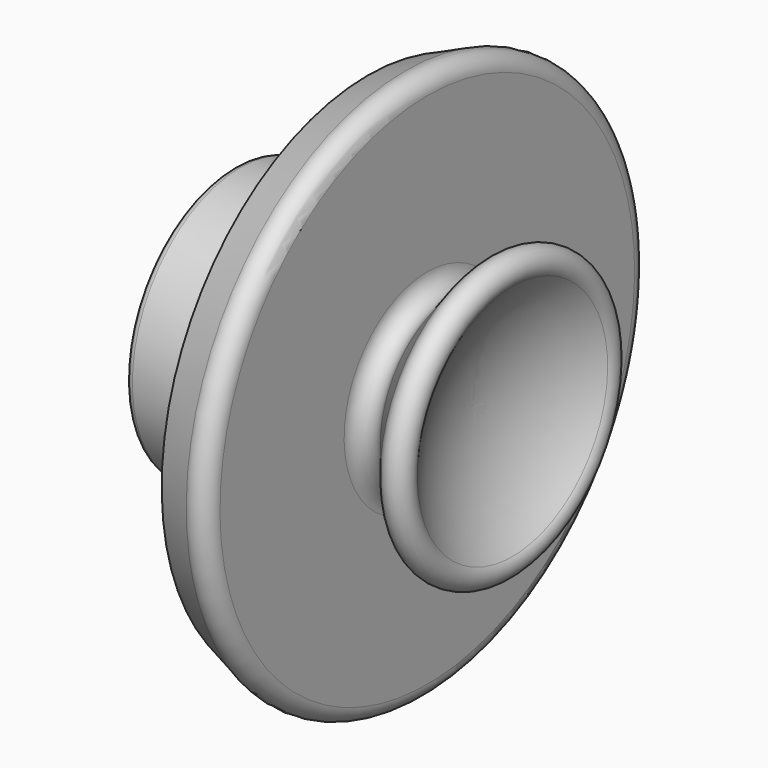
from build123d import *


with BuildPart() as f1:
    # F0 (on Front) → F1 (revolve)
    with BuildSketch(Plane.XZ):
        with BuildLine():
            Line((0, 32.5), (0, 30.692905))
            Line((0, 30.692905), (1, 31.692905))
            Line((1, 31.692905), (2, 30.692905))
            Line((2, 30.692905), (2, 27.692905))
            Line((2, 27.692905), (1, 26.692905))
            Line((1, 26.692905), (0, 27.692905))
            Line((0, 27.692905), (0, 24.692905))
            Line((0, 24.692905), (1, 25.692905))
            Line((1, 25.692905), (2, 24.692905))
            Line((2, 24.692905), (2, 21.692905))
            Line((2, 21.692905), (1, 20.692905))
            Line((1, 20.692905), (0, 21.692905))
            Line((0, 21.692905), (0, 19.88581))
            ThreePointArc((0, 19.88581), (-0.544856, 18.513747), (-1.882556, 17.889261))
            Line((-1.882556, 17.889261), (-16.058722, 17.055369))
            ThreePointArc((-16.058722, 17.055369), (-16.727572, 16.743126), (-17, 16.057095))
            Line((-17, 16.057095), (-17, 13.988276))
            ThreePointArc((-17, 13.988276), (-16.715687, 13.289855), (-16.024416, 12.988574))
            Line((-16.024416, 12.988574), (-13, 13))
            ThreePointArc((-13, 13), (-3.807612, 9.192388), (0, 0))
            Line((0, 0), (13.219109, 0))
            ThreePointArc((13.219109, 0), (14.508325, 7.915021), (18.242695, 15.011788))
            ThreePointArc((18.242695, 15.011788), (17.904193, 17.550943), (15.360543, 17.248068))
            Line((15.360543, 17.248068), (11.062795, 11.866551))
            ThreePointArc((11.062795, 11.866551), (8.838785, 11.227082), (7.5, 13.114619))
            Line((7.5, 13.114619), (7.5, 32.686298))
            ThreePointArc((7.5, 32.686298), (6.60022, 34.356483), (4.710484, 34.523869))
            Line((4.710484, 34.523869), (0, 32.5))
        make_face()
    revolve(axis=Axis((6.609555, 0, 0), (1, 0, 0)))


solid = f1.part
